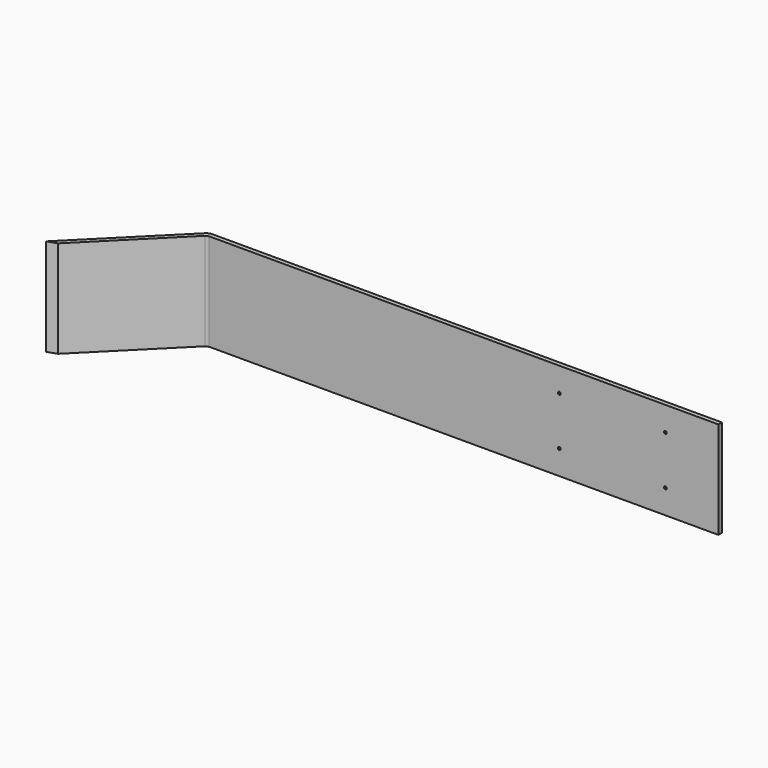
from build123d import *

# Parameters (mm, degrees)
F0_W           = 1473.2
F0_H           = 279.4
F1_DEPTH       = 12.7
F3_DEPTH       = 279.4
F4_SIZE        = 5.08
F6_D           = 4.826
F6_CBORE_D     = 8.128
F6_CBORE_DEPTH = 4.572


with BuildPart() as f1:
    # F0 (on Front) → F1 (new body)
    with BuildSketch(Plane.XZ):
        Rectangle(F0_W, F0_H)
    extrude(amount=F1_DEPTH)

    # F2 (on face) → F3 (join)
    with BuildSketch(Plane.XY.offset(139.7)):
        Polygon((-731.3394877579, -12.7), (-736.6, -12.7), (-736.6, 0), (-996.9017039253, -260.3017039253), (-969.9609355621, -251.3214478042), align=None)
    extrude(amount=-F3_DEPTH)

    # F4
    f4_edges = [f1.edges().sort_by_distance(p)[0] for p in [
        (-736.6, 0, 0),
        (-731.339488, -12.7, 0),
    ]]
    chamfer(f4_edges, length=F4_SIZE)

    # F6 (through all)
    with Locations(Plane.XZ.offset(12.7)):
        with Locations((279.4, 69.85), (279.4, -69.85), (584.2, -69.85), (584.2, 69.85)):
            CounterBoreHole(F6_D / 2, F6_CBORE_D / 2, F6_CBORE_DEPTH)


solid = f1.part
